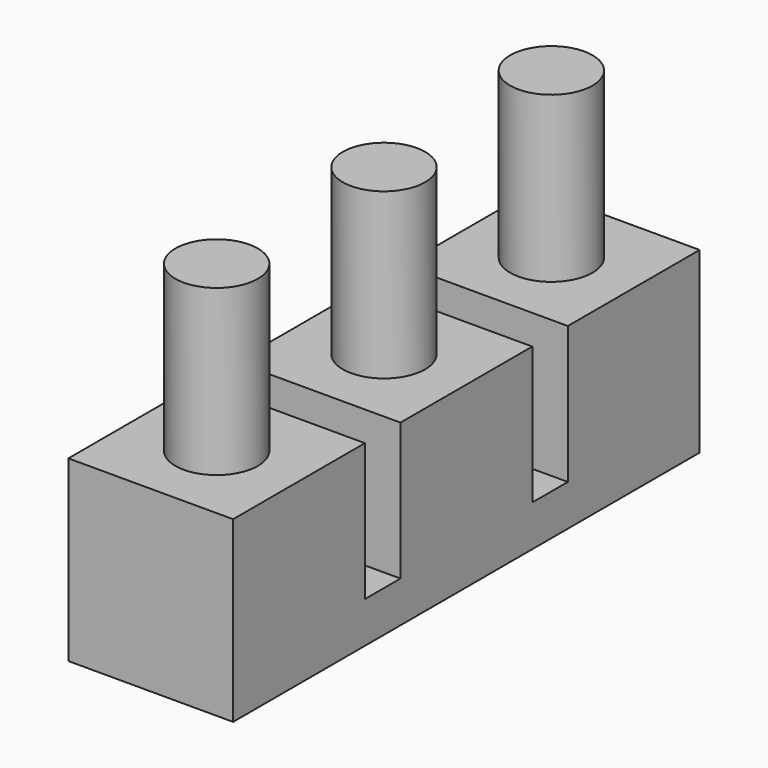
from build123d import *

# Parameters (mm, degrees)
F0_W     = 6
F0_H     = 21.24
F1_DEPTH = 1.5
F2_W     = 6
F2_H     = 6
F3_DEPTH = 5
F4_R     = 1.5
F5_DEPTH = 6


with BuildPart() as f1:
    # F0 (on Top) → F1 (new body)
    with BuildSketch(Plane.XY):
        Rectangle(F0_W, F0_H)
    extrude(amount=F1_DEPTH)

    # F2 (on face) → F3 (join)
    with BuildSketch(Plane.XY.offset(1.5)):
        with Locations((0, 7.62)):
            Rectangle(F2_W, F2_H)
        Rectangle(F2_W, F2_H)
        with Locations((0, -7.62)):
            Rectangle(F2_W, F2_H)
    extrude(amount=F3_DEPTH)

    # F4 (on face) → F5 (join)
    with BuildSketch(Plane.XY.offset(6.5)):
        Circle(F4_R)
        with Locations((0, 7.62)):
            Circle(F4_R)
        with Locations((0, -7.62)):
            Circle(F4_R)
    extrude(amount=F5_DEPTH)


solid = f1.part
